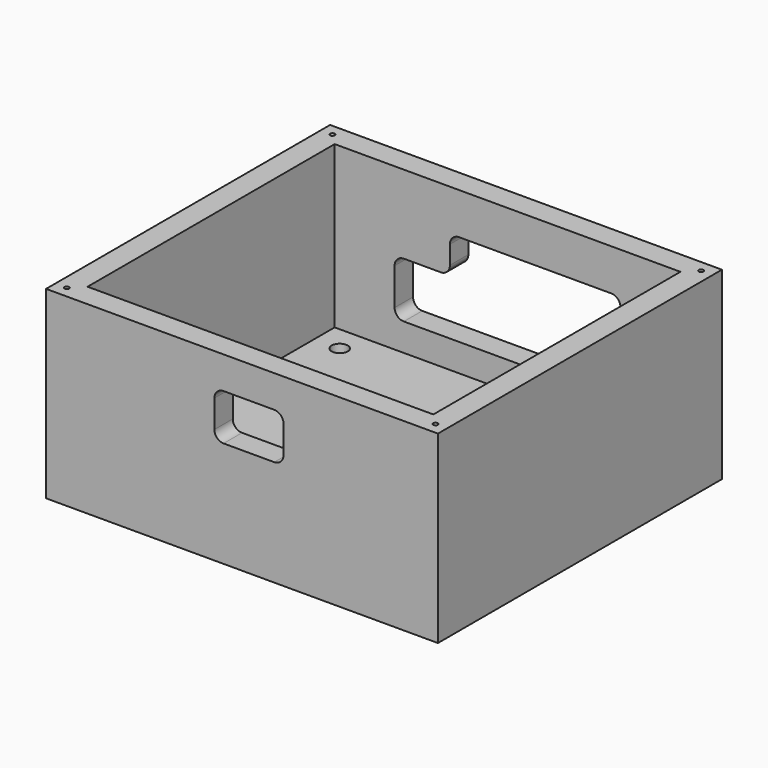
from build123d import *

# Parameters (mm, degrees)
F0_W     = 75
F0_H     = 67
F0_R     = 1.75
F1_DEPTH = 5
F0_W_2   = 85
F0_H_2   = 77
F2_DEPTH = 40
F3_R     = 0.5
F4_DEPTH = 15
F6_DEPTH = 25
F8_DEPTH = 25


with BuildPart() as f1:
    # F0 (on Top) → F1 (new body)
    with BuildSketch(Plane.XY):
        Rectangle(F0_W, F0_H)
        with Locations((-32, -22.8)):
            Circle(F0_R, mode=Mode.SUBTRACT)
        with Locations((32, -22.8)):
            Circle(F0_R, mode=Mode.SUBTRACT)
        with Locations((-32, 28)):
            Circle(F0_R, mode=Mode.SUBTRACT)
        with Locations((32, 28)):
            Circle(F0_R, mode=Mode.SUBTRACT)
    extrude(amount=F1_DEPTH)

    # F0 (on Top) → F2 (join)
    with BuildSketch(Plane.XY):
        Rectangle(F0_W_2, F0_H_2)
        Rectangle(F0_W, F0_H, mode=Mode.SUBTRACT)
    extrude(amount=F2_DEPTH)

    # F3 (on face) → F4 (cut)
    with BuildSketch(Plane.XY.offset(40)):
        with Locations((-40, -36)):
            Circle(F3_R)
        with Locations((-40, 36)):
            Circle(F3_R)
        with Locations((40, -36)):
            Circle(F3_R)
        with Locations((40, 36)):
            Circle(F3_R)
    extrude(amount=-F4_DEPTH, mode=Mode.SUBTRACT)

    # F5 (on face) → F6 (cut)
    with BuildSketch(Plane.XZ.offset(38.5)):
        with BuildLine():
            Line((7, 33), (-4, 33))
            ThreePointArc((-4, 33), (-5.414214, 32.414214), (-6, 31))
            Line((-6, 31), (-6, 25))
            ThreePointArc((-6, 25), (-5.414214, 23.585786), (-4, 23))
            Line((-4, 23), (7, 23))
            ThreePointArc((7, 23), (8.414214, 23.585786), (9, 25))
            Line((9, 25), (9, 31))
            ThreePointArc((9, 31), (8.414214, 32.414214), (7, 33))
        make_face()
    extrude(amount=-F6_DEPTH, mode=Mode.SUBTRACT)

    # F7 (on face) → F8 (cut)
    with BuildSketch(Plane(origin=(0, 38.5, 0), x_dir=(-1, 0, 0), z_dir=(0, 1, 0))):
        with BuildLine():
            Line((10.5, 31), (-22.5, 31))
            ThreePointArc((-22.5, 31), (-23.914214, 30.414214), (-24.5, 29))
            Line((-24.5, 29), (-24.5, 13))
            ThreePointArc((-24.5, 13), (-23.914214, 11.585786), (-22.5, 11))
            Line((-22.5, 11), (22.5, 11))
            ThreePointArc((22.5, 11), (23.914214, 11.585786), (24.5, 13))
            Line((24.5, 13), (24.5, 21))
            ThreePointArc((24.5, 21), (23.914214, 22.414214), (22.5, 23))
            Line((22.5, 23), (14.5, 23))
            ThreePointArc((14.5, 23), (13.085786, 23.585786), (12.5, 25))
            Line((12.5, 25), (12.5, 29))
            ThreePointArc((12.5, 29), (11.914214, 30.414214), (10.5, 31))
        make_face()
    extrude(amount=-F8_DEPTH, mode=Mode.SUBTRACT)


solid = f1.part
